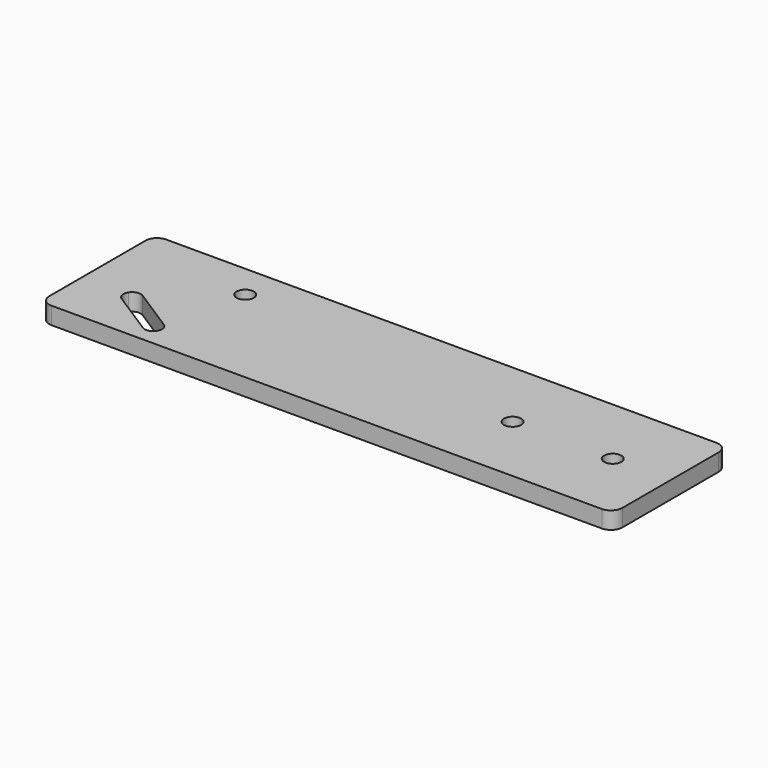
from build123d import *

# Parameters (mm, degrees)
F0_R     = 1.5
F1_DEPTH = 3


with BuildPart() as f1:
    # F0 (on Top) → F1 (new body)
    with BuildSketch(Plane.XY):
        with BuildLine():
            ThreePointArc((50, 10.5), (49.414214, 11.914214), (48, 12.5))
            Line((48, 12.5), (-48, 12.5))
            ThreePointArc((-48, 12.5), (-49.414214, 11.914214), (-50, 10.5))
            Line((-50, 10.5), (-50, -10.5))
            ThreePointArc((-50, -10.5), (-49.414214, -11.914214), (-48, -12.5))
            Line((-48, -12.5), (48, -12.5))
            ThreePointArc((48, -12.5), (49.414214, -11.914214), (50, -10.5))
            Line((50, -10.5), (50, 10.5))
        make_face()
        with BuildLine():
            Line((-34.22406, -9.80216), (-41.801829, -4.946503))
            ThreePointArc((-41.801829, -4.946503), (-42.457846, -4.004345), (-42.255514, -2.874265))
            ThreePointArc((-42.255514, -2.874265), (-41.313357, -2.218248), (-40.183276, -2.420579))
            Line((-40.183276, -2.420579), (-32.605507, -7.276237))
            ThreePointArc((-32.605507, -7.276237), (-31.94949, -8.218395), (-32.151822, -9.348475))
            ThreePointArc((-32.151822, -9.348475), (-33.093979, -10.004492), (-34.22406, -9.80216))
        make_face(mode=Mode.SUBTRACT)
        with Locations((-29.425258, 6.521434)):
            Circle(F0_R, mode=Mode.SUBTRACT)
        with Locations((22.440985, 0)):
            Circle(F0_R, mode=Mode.SUBTRACT)
        with Locations((39.911628, 0)):
            Circle(F0_R, mode=Mode.SUBTRACT)
    extrude(amount=-F1_DEPTH)


solid = f1.part
